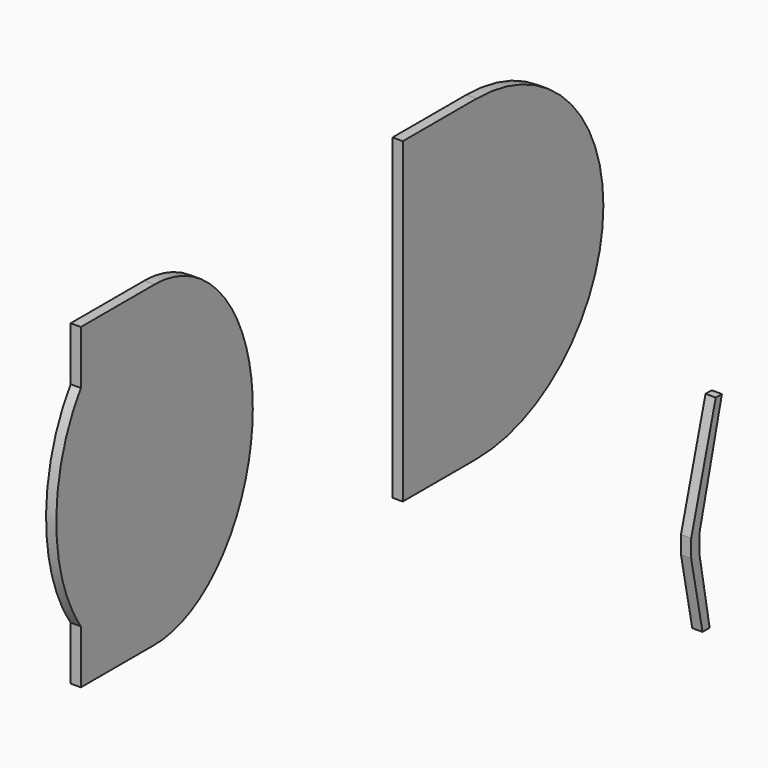
from build123d import *

# Parameters (mm, degrees)
F1_DEPTH = 50.8


with BuildPart() as f1:
    # F0 (on Right) → F1 (new body)
    with BuildSketch(Plane.YZ):
        with BuildLine():
            Line((0, 1574.8), (0, 0))
            Line((0, 0), (457.2, 0))
            ThreePointArc((457.2, 0), (1244.6, 787.4), (457.2, 1574.8))
            Line((457.2, 1574.8), (0, 1574.8))
        make_face()
        with BuildLine():
            Line((-1997.372031, 266.583854), (-1997.372031, 0))
            Line((-1997.372031, 0), (-1540.172031, 0))
            add(Edge.make_bspline(
                [(-1997.372031, 266.583854), (-1815.355365, 0), (-1540.172031, 0)],
                knots=[5.435123, 5.435123, 5.435123, 6.283185, 6.283185, 6.283185], degree=2, weights=[1, 0.911438, 1]))
        make_face()
        with BuildLine():
            add(Edge.make_bspline(
                [(-1997.372031, 1308.216146), (-2352.972031, 787.4), (-1997.372031, 266.583854)],
                knots=[3.989655, 3.989655, 3.989655, 5.435123, 5.435123, 5.435123], degree=2, weights=[1, 0.75, 1]))
            Line((-1997.372031, 266.583854), (-1997.372031, 787.4))
            Line((-1997.372031, 787.4), (-1997.372031, 1308.216146))
        make_face()
        with BuildLine():
            Line((-1997.372031, 787.4), (-1997.372031, 266.583854))
            add(Edge.make_bspline(
                [(-1997.372031, 266.583854), (-1815.355365, 0), (-1540.172031, 0)],
                knots=[5.435123, 5.435123, 5.435123, 6.283185, 6.283185, 6.283185], degree=2, weights=[1, 0.911438, 1]))
            add(Edge.make_bspline(
                [(-1540.172031, 0), (-930.572031, 0), (-930.572031, 787.4)],
                knots=[0, 0, 0, 1.570796, 1.570796, 1.570796], degree=2, weights=[1, 0.707107, 1]))
            Line((-930.572031, 787.4), (-1463.972031, 787.4))
            Line((-1463.972031, 787.4), (-1540.172031, 787.4))
            Line((-1540.172031, 787.4), (-1997.372031, 787.4))
        make_face()
        with BuildLine():
            Line((-1997.372031, 1308.216146), (-1997.372031, 787.4))
            Line((-1997.372031, 787.4), (-1540.172031, 787.4))
            Line((-1540.172031, 787.4), (-1463.972031, 787.4))
            Line((-1463.972031, 787.4), (-930.572031, 787.4))
            add(Edge.make_bspline(
                [(-930.572031, 787.4), (-930.572031, 1574.8), (-1540.172031, 1574.8)],
                knots=[1.570796, 1.570796, 1.570796, 3.141593, 3.141593, 3.141593], degree=2, weights=[1, 0.707107, 1]))
            add(Edge.make_bspline(
                [(-1540.172031, 1574.8), (-1815.355365, 1574.8), (-1997.372031, 1308.216146)],
                knots=[3.141593, 3.141593, 3.141593, 3.989655, 3.989655, 3.989655], degree=2, weights=[1, 0.911438, 1]))
        make_face()
        with BuildLine():
            Line((-1997.372031, 1574.8), (-1997.372031, 1308.216146))
            add(Edge.make_bspline(
                [(-1540.172031, 1574.8), (-1815.355365, 1574.8), (-1997.372031, 1308.216146)],
                knots=[3.141593, 3.141593, 3.141593, 3.989655, 3.989655, 3.989655], degree=2, weights=[1, 0.911438, 1]))
            Line((-1540.172031, 1574.8), (-1997.372031, 1574.8))
        make_face()
        Polygon((1840.475321, -976.297498), (1840.475321, -887.397498), (1980.175321, -334.947498), (1942.075321, -334.947498), (1789.675321, -887.397498), (1789.675321, -976.297498), (1859.525321, -1325.547498), (1903.975321, -1325.547498), align=None)
    extrude(amount=F1_DEPTH)


solid = f1.part
